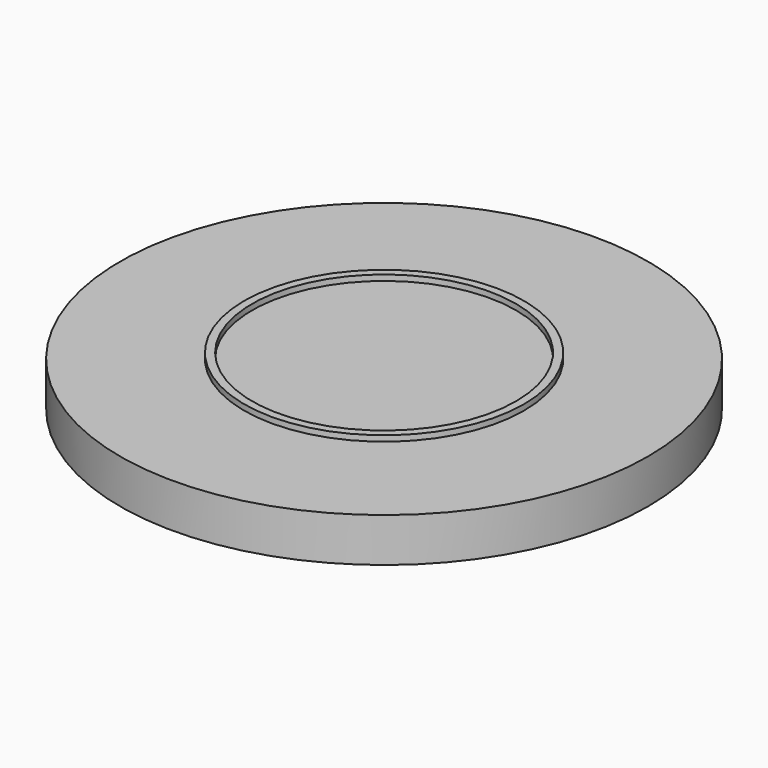
from build123d import *

# Parameters (mm, degrees)
F0_W = 30
F0_H = 5
F2_W = 0.904402
F2_H = 0.647272


with BuildPart() as f1:
    # F0 (on Front) → F1 (revolve)
    with BuildSketch(Plane.XZ):
        with Locations((15, -2.5)):
            Rectangle(F0_W, F0_H)
    revolve(axis=Axis((0, 0, 13.115438), (0, 0, 1)))

    # F2 (on Front) → F3 (revolve)
    with BuildSketch(Plane.XZ):
        with Locations((15.452201, 0.323636)):
            Rectangle(F2_W, F2_H)
    revolve(axis=Axis((0, 0, 1.22493), (0, 0, 1)))


solid = f1.part
